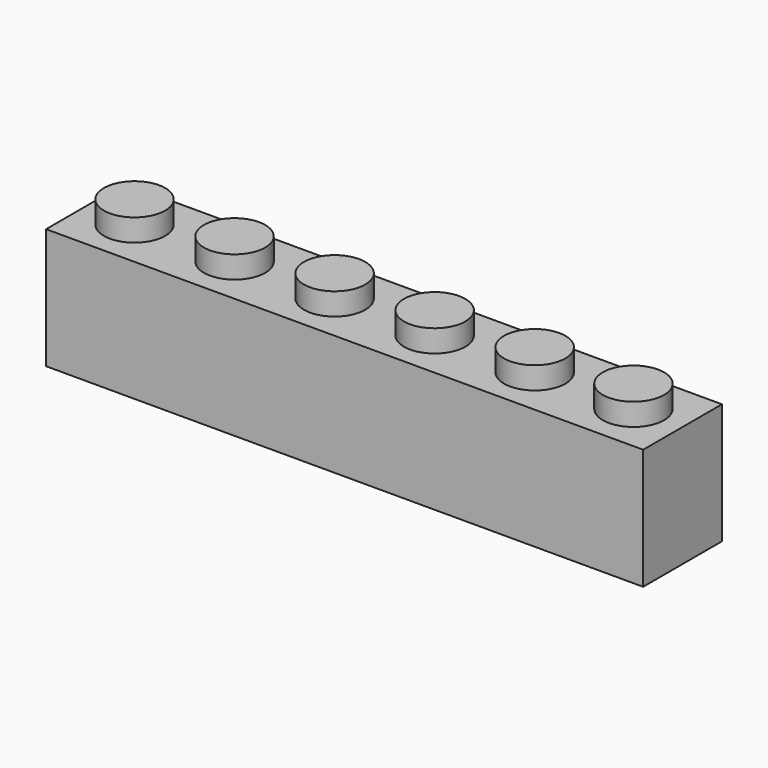
from build123d import *

# Parameters (mm, degrees)
F0_W     = 47.752
F0_H     = 7.874
F1_DEPTH = 9.652
F2_R     = 2.4511
F3_DEPTH = 1.778
F4_W     = 45.212
F4_H     = 5.334
F5_DEPTH = 8.382
F6_R     = 1.4986
F7_DEPTH = 8.382


with BuildPart() as f1:
    # F0 (on Top) → F1 (new body)
    with BuildSketch(Plane.XY):
        Rectangle(F0_W, F0_H)
    extrude(amount=F1_DEPTH)

    # F2 (on face) → F3 (join)
    with BuildSketch(Plane.XY.offset(9.652)):
        with Locations((-19.9517, 0)):
            Circle(F2_R)
        with Locations((-11.9507, 0)):
            Circle(F2_R)
        with Locations((-3.9497, 0)):
            Circle(F2_R)
        with Locations((4.0513, 0)):
            Circle(F2_R)
        with Locations((12.0523, 0)):
            Circle(F2_R)
        with Locations((19.9517, 0)):
            Circle(F2_R)
    extrude(amount=F3_DEPTH)

    # F4 (on face) → F5 (cut)
    with BuildSketch(Plane(origin=(0, 0, 0), x_dir=(1, 0, 0), z_dir=(0, 0, -1))):
        Rectangle(F4_W, F4_H)
    extrude(amount=-F5_DEPTH, mode=Mode.SUBTRACT)

    # F6 (on face) → F7 (join)
    with BuildSketch(Plane(origin=(0, 0, 8.382), x_dir=(1, 0, 0), z_dir=(0, 0, -1))):
        with Locations((-16.256, 0)):
            Circle(F6_R)
        with Locations((-8.128, 0)):
            Circle(F6_R)
        Circle(F6_R)
        with Locations((8.128, 0)):
            Circle(F6_R)
        with Locations((16.256, 0)):
            Circle(F6_R)
    extrude(amount=F7_DEPTH)


solid = f1.part
